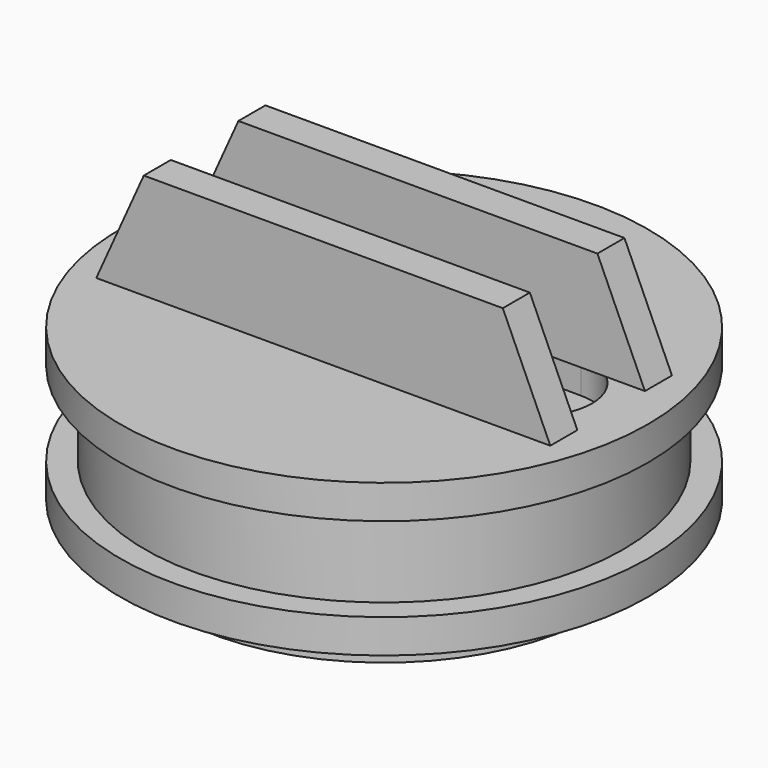
from build123d import *

# Parameters (mm, degrees)
F0_R      = 9.921875
F0_R_2    = 8.9916
F0_R_3    = 8.255
F1_DEPTH  = 1.27
F3_R      = 7.9375
F4_DEPTH  = 1.27
F5_DEPTH  = 3.175
F7_R      = 9.921875
F8_DEPTH  = 1.27
F11_DEPTH = 1.27


with BuildPart() as f1:
    # F0 (on Top) → F1 (new body)
    with BuildSketch(Plane.XY):
        Circle(F0_R)
        Circle(F0_R_2, mode=Mode.SUBTRACT)
        Circle(F0_R_2)
        Circle(F0_R_3, mode=Mode.SUBTRACT)
        Circle(F0_R_3)
        with BuildLine():
            ThreePointArc((-5.715, -2.0955), (-7.8105, 0), (-5.715, 2.0955))
            Line((-5.715, 2.0955), (5.715, 2.0955))
            ThreePointArc((5.715, 2.0955), (7.8105, 0), (5.715, -2.0955))
            Line((5.715, -2.0955), (-5.715, -2.0955))
        make_face(mode=Mode.SUBTRACT)
        with BuildLine():
            Line((5.715, 2.0955), (-5.715, 2.0955))
            ThreePointArc((-5.715, 2.0955), (-7.8105, 0), (-5.715, -2.0955))
            Line((-5.715, -2.0955), (5.715, -2.0955))
            ThreePointArc((5.715, -2.0955), (7.8105, 0), (5.715, 2.0955))
        make_face()
    extrude(amount=-F1_DEPTH)


with BuildPart() as f4:
    # F3 (on offset) → F4 (new body)
    with BuildSketch(Plane(origin=(0, 0, -1.27), x_dir=(1, 0, 0), z_dir=(0, 0, -1))):
        Circle(F3_R)
    extrude(amount=F4_DEPTH)


with BuildPart() as f5:
    # F0 (on Top) → F5 (new body)
    with BuildSketch(Plane.XY):
        Circle(F0_R_2)
        Circle(F0_R_3, mode=Mode.SUBTRACT)
    extrude(amount=F5_DEPTH)


with BuildPart() as f8:
    # F7 (on offset) → F8 (new body)
    with BuildSketch(Plane.XY.offset(3.175)):
        Circle(F7_R)
        with BuildLine():
            ThreePointArc((-5.715, -2.0955), (-7.8105, 0), (-5.715, 2.0955))
            Line((-5.715, 2.0955), (5.715, 2.0955))
            ThreePointArc((5.715, 2.0955), (7.8105, 0), (5.715, -2.0955))
            Line((5.715, -2.0955), (-5.715, -2.0955))
        make_face(mode=Mode.SUBTRACT)
    extrude(amount=F8_DEPTH)


with BuildPart() as f11:
    # F10 (on offset) → F11 (new body)
    with BuildSketch(Plane.XZ.offset(1.5875)):
        Polygon((6.74751, 8.41502), (-6.74751, 8.41502), (-8.53313, 4.445), (8.53313, 4.445), align=None)
    extrude(amount=F11_DEPTH)


with BuildPart() as f12_1:
    # F12: instance of F11
    add(f11.part.mirror(Plane.XZ))


solid = Compound([f1.part, f4.part, f5.part, f8.part, f11.part, f12_1.part])
